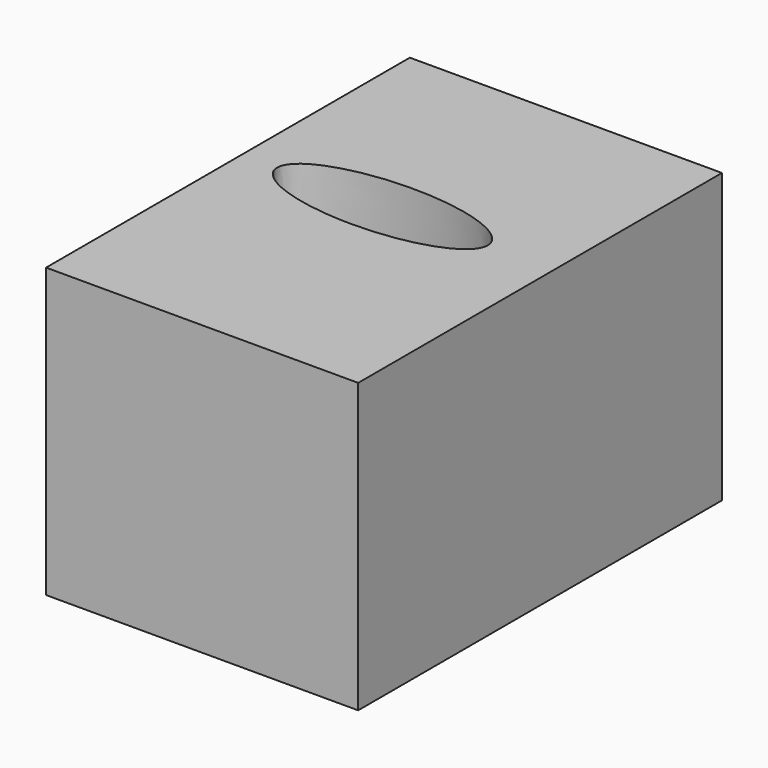
from build123d import *

# Parameters (mm, degrees)
F0_W     = 98.003034
F0_H     = 142.7726
F1_DEPTH = 90.528794
F3_DEPTH = 25


with BuildPart() as f1:
    # F0 (on Top) → F1 (new body)
    with BuildSketch(Plane.XY):
        with Locations((-10.046577, -17.655231)):
            Rectangle(F0_W, F0_H)
    extrude(amount=F1_DEPTH)

    # F2 (on face) → F3 (cut)
    with BuildSketch(Plane.XY.offset(90.528794)):
        with BuildLine():
            add(Edge.make_bspline(
                [(-14.916189, -24.213478), (42.35569, -24.213478), (13.71975, -6.140597), (-14.916189, 11.932283), (-43.552128, -6.140597), (-72.188068, -24.213478), (-14.916189, -24.213478)],
                knots=[4.712389, 4.712389, 4.712389, 6.806784, 6.806784, 8.901179, 8.901179, 10.995574, 10.995574, 10.995574], degree=2, weights=[1, 0.5, 1, 0.5, 1, 0.5, 1]))
        make_face()
    extrude(amount=-F3_DEPTH, mode=Mode.SUBTRACT)


solid = f1.part
